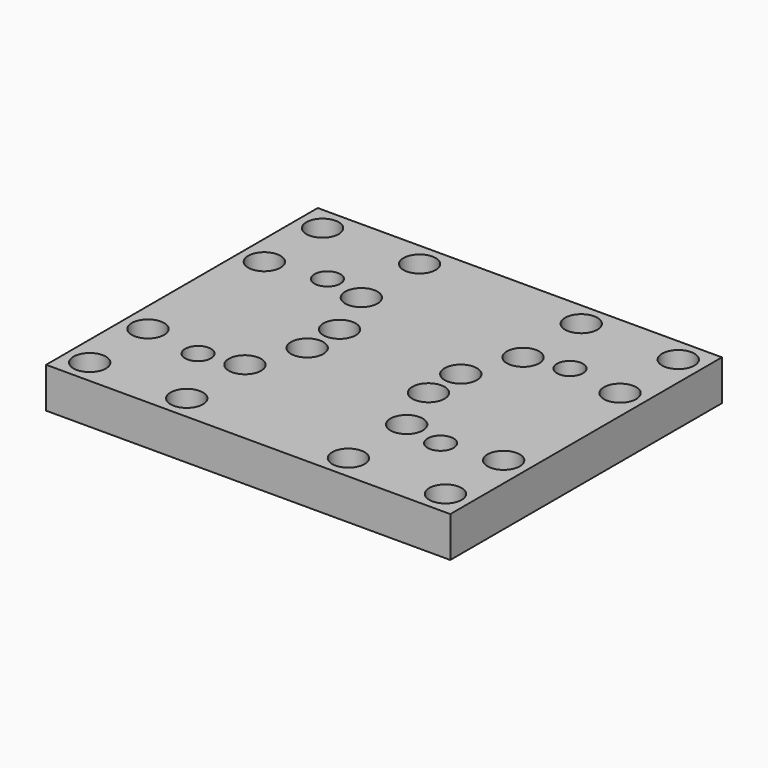
from build123d import *

# Parameters (mm, degrees)
SKETCH_W        = 100
SKETCH_H        = 84
PAD_DEPTH       = 10
SKETCH001_R     = 2.1
POCKET_DEPTH    = 10
SKETCH002_R     = 3.2
POCKET001_DEPTH = 10
SKETCH003_R     = 4
POCKET002_DEPTH = 5
POCKET003_DEPTH = 4
POCKET004_DEPTH = 5.2


with BuildPart() as part:
    # Sketch → Pad (new body)
    with BuildSketch(Plane.XY):
        with Locations((50, 42)):
            Rectangle(SKETCH_W, SKETCH_H)
    extrude(amount=PAD_DEPTH)

    # Sketch001 (on Face6 of Pad) → Pocket (cut)
    with BuildSketch(Plane.XY.offset(10)):
        with Locations((6, 78)):
            Circle(SKETCH001_R)
        with Locations((30, 78)):
            Circle(SKETCH001_R)
        with Locations((6, 60)):
            Circle(SKETCH001_R)
        with Locations((30, 60)):
            Circle(SKETCH001_R)
        with Locations((6, 24)):
            Circle(SKETCH001_R)
        with Locations((30, 24)):
            Circle(SKETCH001_R)
        with Locations((6, 6)):
            Circle(SKETCH001_R)
        with Locations((30, 6)):
            Circle(SKETCH001_R)
        with Locations((70, 78)):
            Circle(SKETCH001_R)
        with Locations((94, 78)):
            Circle(SKETCH001_R)
        with Locations((70, 60)):
            Circle(SKETCH001_R)
        with Locations((94, 60)):
            Circle(SKETCH001_R)
        with Locations((70, 24)):
            Circle(SKETCH001_R)
        with Locations((94, 24)):
            Circle(SKETCH001_R)
        with Locations((70, 6)):
            Circle(SKETCH001_R)
        with Locations((94, 6)):
            Circle(SKETCH001_R)
        with Locations((35, 47)):
            Circle(SKETCH001_R)
        with Locations((65, 47)):
            Circle(SKETCH001_R)
        with Locations((35, 37)):
            Circle(SKETCH001_R)
        with Locations((65, 37)):
            Circle(SKETCH001_R)
    extrude(amount=-POCKET_DEPTH, mode=Mode.SUBTRACT)

    # Sketch002 (on Face5 of Pocket) → Pocket001 (cut)
    with BuildSketch(Plane.XY.offset(10)):
        with Locations((20, 62)):
            Circle(SKETCH002_R)
        with Locations((20, 22)):
            Circle(SKETCH002_R)
        with Locations((80, 62)):
            Circle(SKETCH002_R)
        with Locations((80, 22)):
            Circle(SKETCH002_R)
    extrude(amount=-POCKET001_DEPTH, mode=Mode.SUBTRACT)

    # Sketch003 (on Face5 of Pocket001) → Pocket002 (cut)
    with BuildSketch(Plane.XY.offset(10)):
        with Locations((6, 78)):
            Circle(SKETCH003_R)
        with Locations((30, 78)):
            Circle(SKETCH003_R)
        with Locations((30, 60)):
            Circle(SKETCH003_R)
        with Locations((6, 60)):
            Circle(SKETCH003_R)
        with Locations((70, 78)):
            Circle(SKETCH003_R)
        with Locations((94, 78)):
            Circle(SKETCH003_R)
        with Locations((70, 60)):
            Circle(SKETCH003_R)
        with Locations((94, 60)):
            Circle(SKETCH003_R)
        with Locations((6, 24)):
            Circle(SKETCH003_R)
        with Locations((30, 24)):
            Circle(SKETCH003_R)
        with Locations((6, 6)):
            Circle(SKETCH003_R)
        with Locations((30, 6)):
            Circle(SKETCH003_R)
        with Locations((70, 24)):
            Circle(SKETCH003_R)
        with Locations((94, 24)):
            Circle(SKETCH003_R)
        with Locations((70, 6)):
            Circle(SKETCH003_R)
        with Locations((94, 6)):
            Circle(SKETCH003_R)
        with Locations((35, 47)):
            Circle(SKETCH003_R)
        with Locations((35, 37)):
            Circle(SKETCH003_R)
        with Locations((65, 37)):
            Circle(SKETCH003_R)
        with Locations((65, 47)):
            Circle(SKETCH003_R)
    extrude(amount=-POCKET002_DEPTH, mode=Mode.SUBTRACT)

    # Sketch003 (on Face5 of Pocket001) → Pocket003 (cut)
    with BuildSketch(Plane.XY.offset(10)):
        with Locations((6, 78)):
            Circle(SKETCH003_R)
        with Locations((30, 78)):
            Circle(SKETCH003_R)
        with Locations((30, 60)):
            Circle(SKETCH003_R)
        with Locations((6, 60)):
            Circle(SKETCH003_R)
        with Locations((70, 78)):
            Circle(SKETCH003_R)
        with Locations((94, 78)):
            Circle(SKETCH003_R)
        with Locations((70, 60)):
            Circle(SKETCH003_R)
        with Locations((94, 60)):
            Circle(SKETCH003_R)
        with Locations((6, 24)):
            Circle(SKETCH003_R)
        with Locations((30, 24)):
            Circle(SKETCH003_R)
        with Locations((6, 6)):
            Circle(SKETCH003_R)
        with Locations((30, 6)):
            Circle(SKETCH003_R)
        with Locations((70, 24)):
            Circle(SKETCH003_R)
        with Locations((94, 24)):
            Circle(SKETCH003_R)
        with Locations((70, 6)):
            Circle(SKETCH003_R)
        with Locations((94, 6)):
            Circle(SKETCH003_R)
        with Locations((35, 47)):
            Circle(SKETCH003_R)
        with Locations((35, 37)):
            Circle(SKETCH003_R)
        with Locations((65, 37)):
            Circle(SKETCH003_R)
        with Locations((65, 47)):
            Circle(SKETCH003_R)
    extrude(amount=-POCKET003_DEPTH, mode=Mode.SUBTRACT)

    # Sketch004 (on Face4 of Pocket003) → Pocket004 (cut)
    with BuildSketch(Plane(origin=(0, 0, 0), x_dir=(1, 0, 0), z_dir=(0, 0, -1))):
        Polygon((14.42356, -23.704889), (18.688257, -27.681783), (24.264697, -25.976895), (25.57644, -20.295111), (21.311743, -16.318217), (15.735303, -18.023105), align=None)
        Polygon((74.318217, -20.688257), (76.023105, -26.264697), (81.704889, -27.57644), (85.681783, -23.311743), (83.976895, -17.735303), (78.295111, -16.42356), align=None)
        Polygon((74.42356, -63.704889), (78.688257, -67.681783), (84.264697, -65.976895), (85.57644, -60.295111), (81.311743, -56.318217), (75.735303, -58.023105), align=None)
        Polygon((14.318217, -60.688257), (16.023105, -66.264697), (21.704889, -67.57644), (25.681783, -63.311743), (23.976895, -57.735303), (18.295111, -56.42356), align=None)
    extrude(amount=-POCKET004_DEPTH, mode=Mode.SUBTRACT)


solid = part.part
